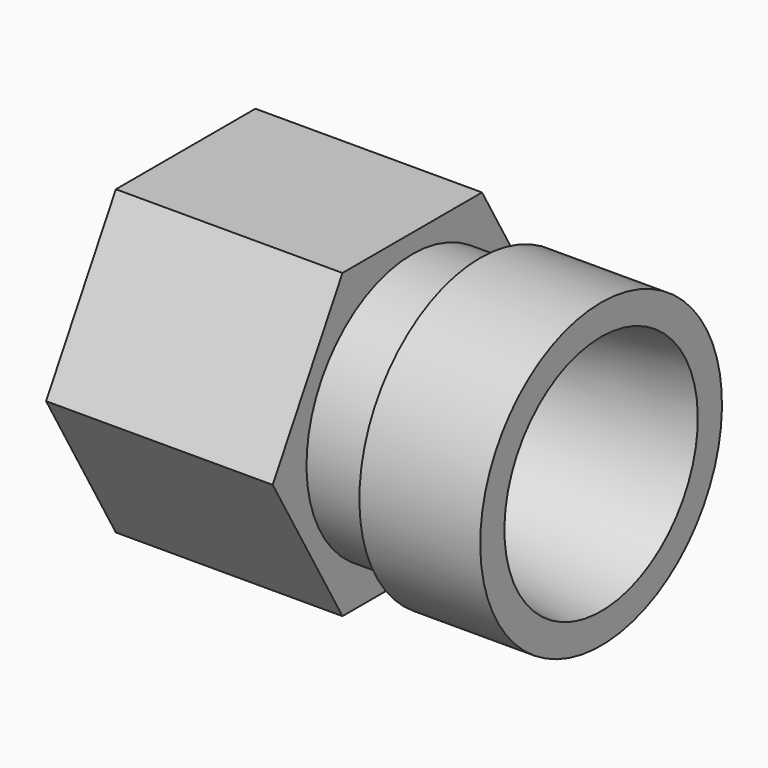
from build123d import *

# Parameters (mm, degrees)
F2_R     = 17.5
F3_DEPTH = 30
F4_R     = 11.75
F5_DEPTH = 55.001


with BuildPart() as f1:
    # F0 (on Front) → F1 (revolve)
    with BuildSketch(Plane.XZ):
        Polygon((-55, 17.5), (-55, 0), (-36.929604, 0), (-34, 11.75), (-30.240321, 11.75), (0, 16), (0, 20), (-16, 20), (-16, 17.5), align=None)
    revolve(axis=Axis((-27.5, 0, 0), (-1, 0, 0)))

    # F2 (on face) → F3 (join)
    with BuildSketch(Plane(origin=(-55, 0, 0), x_dir=(0, -1, 0), z_dir=(-1, 0, 0))):
        Polygon((11.547005, -20), (23.094011, 0), (11.547005, 20), (-11.547005, 20), (-23.094011, 0), (-11.547005, -20), align=None)
        Circle(F2_R, mode=Mode.SUBTRACT)
    extrude(amount=-F3_DEPTH)

    # F4 (on face) → F5 (cut, through all)
    with BuildSketch(Plane(origin=(-55, 0, 0), x_dir=(0, -1, 0), z_dir=(-1, 0, 0))):
        Circle(F4_R)
    extrude(amount=-F5_DEPTH, mode=Mode.SUBTRACT)


solid = f1.part
